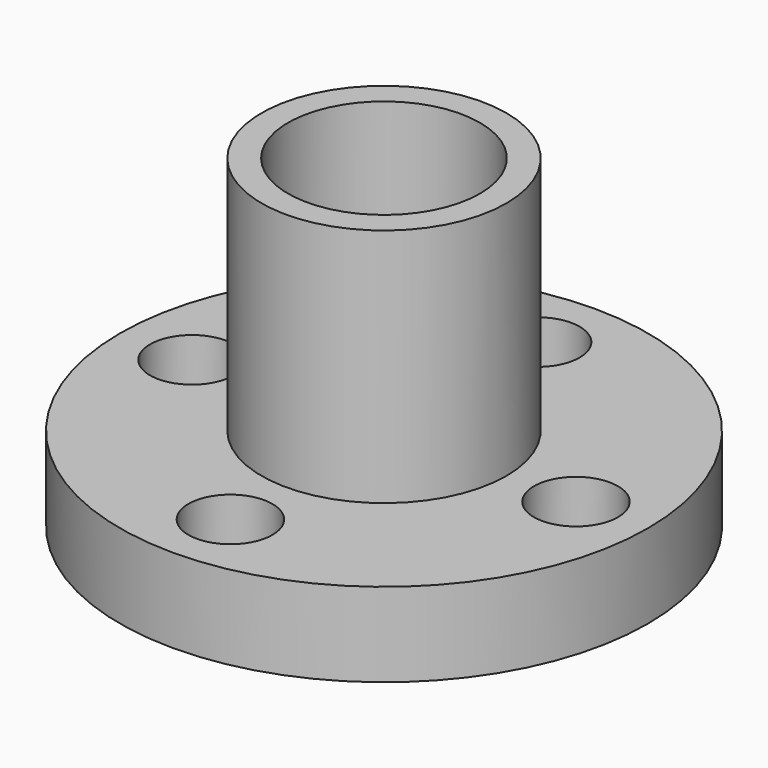
from build123d import *

# Parameters (mm, degrees)
F0_R     = 11
F0_R_2   = 1.75
F0_R_3   = 4
F1_DEPTH = 3.5
F2_R     = 5.1
F2_R_2   = 4
F3_DEPTH = 10
F4_R     = 5.1
F4_R_2   = 4
F5_DEPTH = 1.5


with BuildPart() as f1:
    # F0 (on Top) → F1 (new body)
    with BuildSketch(Plane.XY):
        Circle(F0_R)
        with Locations((0, -8)):
            Circle(F0_R_2, mode=Mode.SUBTRACT)
        with Locations((-8, 0)):
            Circle(F0_R_2, mode=Mode.SUBTRACT)
        Circle(F0_R_3, mode=Mode.SUBTRACT)
        with Locations((8, 0)):
            Circle(F0_R_2, mode=Mode.SUBTRACT)
        with Locations((0, 8)):
            Circle(F0_R_2, mode=Mode.SUBTRACT)
    extrude(amount=F1_DEPTH)

    # F2 (on face) → F3 (join)
    with BuildSketch(Plane.XY.offset(3.5)):
        Circle(F2_R)
        Circle(F2_R_2, mode=Mode.SUBTRACT)
    extrude(amount=F3_DEPTH)

    # F4 (on face) → F5 (join)
    with BuildSketch(Plane(origin=(0, 0, 0), x_dir=(1, 0, 0), z_dir=(0, 0, -1))):
        Circle(F4_R)
        Circle(F4_R_2, mode=Mode.SUBTRACT)
    extrude(amount=F5_DEPTH)


solid = f1.part
